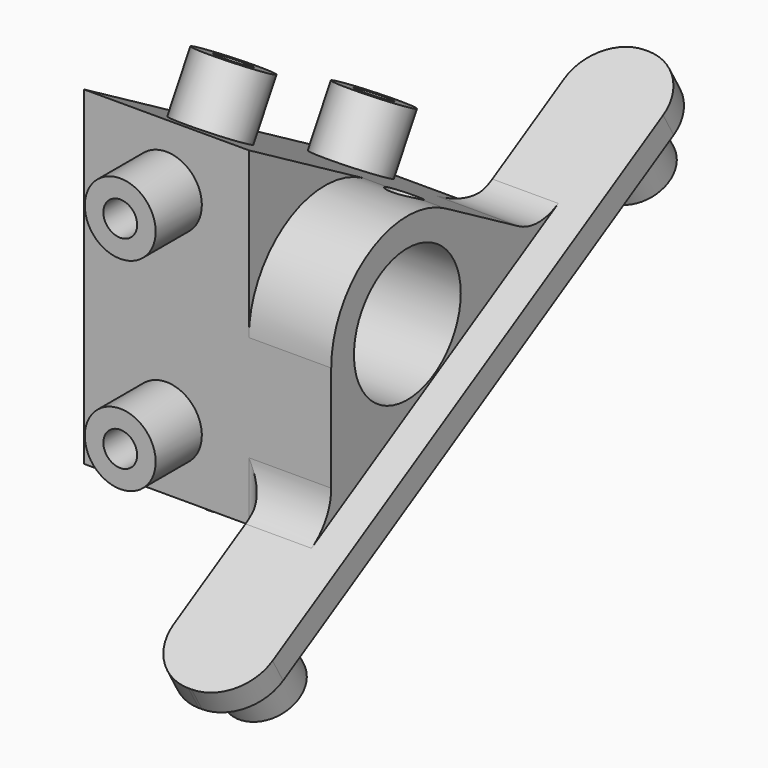
from build123d import *

# Parameters (mm, degrees)
SKETCH_R           = 4.05
PAD_DEPTH          = 15
SKETCH001_R        = 2.15
SKETCH001_R_2      = 1.025
PAD001_DEPTH       = 3.5
POLARPATTERN_COUNT = 3
POLARPATTERN_ANGLE = 240
SKETCH002_R        = 1
POCKET_DEPTH       = 5
SKETCH003_W        = 40
SKETCH003_H        = 6
PAD002_DEPTH       = 1.6
SKETCH004_R        = 2.15
SKETCH004_R_2      = 1.025
PAD003_DEPTH       = 3
POCKET001_DEPTH    = 5
FILLET_R           = 3
FILLET001_R        = 2.9
FILLET002_R        = 1
FILLET003_R        = 1


with BuildPart() as part:
    # Sketch → Pad (new body)
    with BuildSketch(Plane.YZ):
        Polygon((-5.7735026919, 10), (-5.7735026919, -10), (11.5470053838, 0), align=None)
        Circle(SKETCH_R, mode=Mode.SUBTRACT)
    extrude(amount=PAD_DEPTH)

    # Sketch001 (on Face1 of Pad) → Pad001 (join)
    with BuildSketch(Plane(origin=(0, -5.7735026919, 0), x_dir=(0, 0, -1), z_dir=(0, -1, 0))):
        with Locations((6.15, 5)):
            Circle(SKETCH001_R)
        with Locations((6.15, 5)):
            Circle(SKETCH001_R_2, mode=Mode.SUBTRACT)
        with Locations((-6.15, 5)):
            Circle(SKETCH001_R)
        with Locations((-6.15, 5)):
            Circle(SKETCH001_R_2, mode=Mode.SUBTRACT)
    pad001 = extrude(amount=PAD001_DEPTH)

    # PolarPattern: Pad001 ×3 about axis
    polarpattern_axis = Axis((0, 0, 0), (1, 0, 0))
    for i in range(1, POLARPATTERN_COUNT):
        add(pad001.rotate(polarpattern_axis, i * POLARPATTERN_ANGLE / (POLARPATTERN_COUNT - 1)))

    # Sketch002 (on Face2 of PolarPattern) → Pocket (cut)
    with BuildSketch(Plane(origin=(0, 2.8867513459, 5), x_dir=(0, -0.8660254038, 0.5), z_dir=(0, 0.5, 0.8660254038))):
        with Locations((0, 12.5)):
            Circle(SKETCH002_R)
    extrude(amount=-POCKET_DEPTH, mode=Mode.SUBTRACT)

    # Sketch003 (on Face5 of Pocket) → Pad002 (join)
    with BuildSketch(Plane(origin=(0, 2.8867513459, -5), x_dir=(0, 0.8660254038, 0.5), z_dir=(0, 0.5, -0.8660254038))):
        with Locations((0, 14)):
            Rectangle(SKETCH003_W, SKETCH003_H)
    extrude(amount=-PAD002_DEPTH)

    # Sketch004 (on Face14 of Pad002) → Pad003 (join)
    with BuildSketch(Plane(origin=(0, 2.8867513459, -5), x_dir=(0, 0.8660254038, 0.5), z_dir=(0, 0.5, -0.8660254038))):
        with Locations((-16.2, 14)):
            Circle(SKETCH004_R)
        with Locations((-16.2, 14)):
            Circle(SKETCH004_R_2, mode=Mode.SUBTRACT)
        with Locations((16.2, 14)):
            Circle(SKETCH004_R)
        with Locations((16.2, 14)):
            Circle(SKETCH004_R_2, mode=Mode.SUBTRACT)
    extrude(amount=PAD003_DEPTH)

    # Sketch005 (on Face6 of Pad003) → Pocket001 (cut)
    with BuildSketch(Plane.YZ.offset(15)):
        with BuildLine():
            Line((-5.7735026919, 0), (-5.7735026919, 10))
            Line((-5.7735026919, 10), (2.8867345187, 5.0000097152))
            ThreePointArc((2.8867345187, 5.0000097152), (-2.8867597595, 4.9999951424), (-5.7735026919, 0))
        make_face()
    extrude(amount=-POCKET001_DEPTH, mode=Mode.SUBTRACT)

    # Fillet
    fillet_edges = [part.edges().sort_by_distance(p)[0] for p in [
        (13, 9.947005, 0.92376),
        (13, -5.773503, -8.152479),
    ]]
    fillet(fillet_edges, radius=FILLET_R)

    # Fillet001
    fillet001_edges = [part.edges().sort_by_distance(p)[0] for p in [
        (17, -14.833757, -14.30718),
        (11, -14.833757, -14.30718),
        (17, 19.807259, 5.69282),
        (11, 19.807259, 5.69282),
    ]]
    fillet(fillet001_edges, radius=FILLET001_R)

    # Fillet002
    fillet002_edges = [part.edges().sort_by_distance(p)[0] for p in [
        (11, -5.773503, -9.07624),
        (11, -5.773503, -7.286454),
    ]]
    fillet(fillet002_edges, radius=FILLET002_R)

    # Fillet003
    fillet003_edges = [part.edges().sort_by_distance(p)[0] for p in [
        (11, 9.197005, 1.356773),
        (11, 10.747005, 0.46188),
    ]]
    fillet(fillet003_edges, radius=FILLET003_R)


solid = part.part
